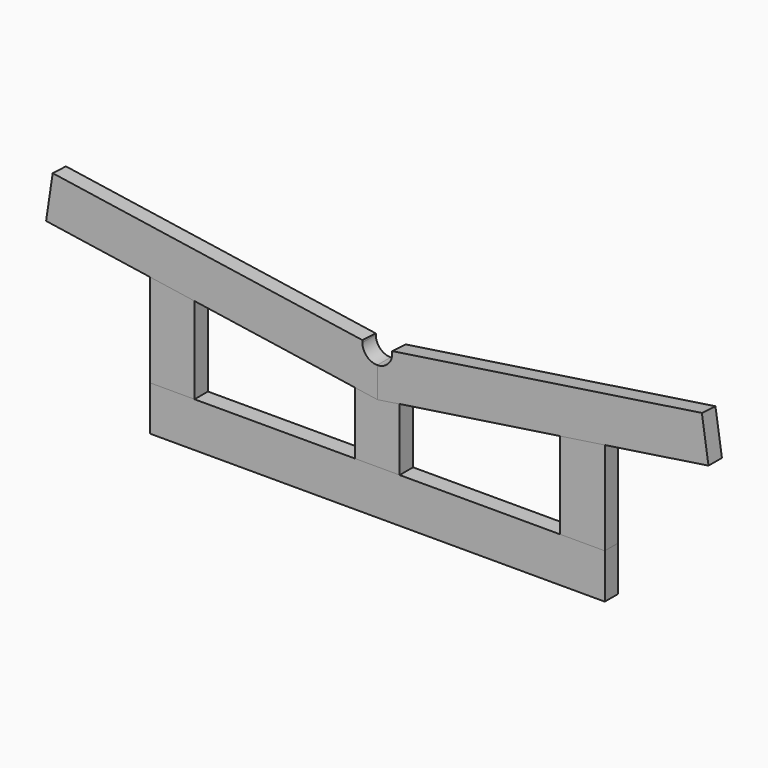
from build123d import *

# Parameters (mm, degrees)
F0_W      = 1220
F0_H      = 120
F1_DEPTH  = 45
F3_DEPTH  = 45
F5_DEPTH  = 1542.424441
F7_DEPTH  = 45
F11_DEPTH = 45


with BuildPart() as f1:
    # F0 (on Front) → F1 (new body)
    with BuildSketch(Plane.XZ):
        with Locations((610, 60)):
            Rectangle(F0_W, F0_H)
    extrude(amount=F1_DEPTH)


with BuildPart() as f3:
    # F2 (on Front) → F3 (new body)
    with BuildSketch(Plane.XZ):
        with BuildLine():
            Line((570, 400), (570, 405.97804))
            Line((570, 405.97804), (-260.33396, 530.072282))
            Line((-260.33396, 530.072282), (-278.071089, 411.390378))
            Line((-278.071089, 411.390378), (610, 278.667265))
            Line((610, 278.667265), (610, 360))
            ThreePointArc((610, 360), (581.715729, 371.715729), (570, 400))
        make_face()
    extrude(amount=F3_DEPTH)

    # F4 (on face) → F5 (cut, through all)
    with BuildSketch(Plane(origin=(-332.13535, 0, 49.637961), x_dir=(0, -1, 0), z_dir=(-0.989016, 0, 0.147809))):
        Polygon((45, 485.770086), (0, 485.770086), (0, 483.411736), align=None)
    extrude(amount=-F5_DEPTH, mode=Mode.SUBTRACT)


with BuildPart() as f7:
    # F6 (on Front) → F7 (new body)
    with BuildSketch(Plane.XZ):
        Polygon((0, 369.832375), (0, 120), (120, 120), (120, 351.898255), align=None)
    extrude(amount=F7_DEPTH)


with BuildPart() as f9_1:
    # F9: instance of F3
    add(f3.part.mirror(Plane.YZ.offset(610)))


with BuildPart() as f9_2:
    # F9: instance of F7
    add(f7.part.mirror(Plane.YZ.offset(610)))


with BuildPart() as f11:
    # F10 (on Front) → F11 (new body)
    with BuildSketch(Plane.XZ):
        Polygon((550, 120), (670, 120), (670, 287.634325), (610, 278.667265), (550, 287.634325), align=None)
    extrude(amount=F11_DEPTH)


solid = Compound([f1.part, f3.part, f7.part, f9_1.part, f9_2.part, f11.part])
